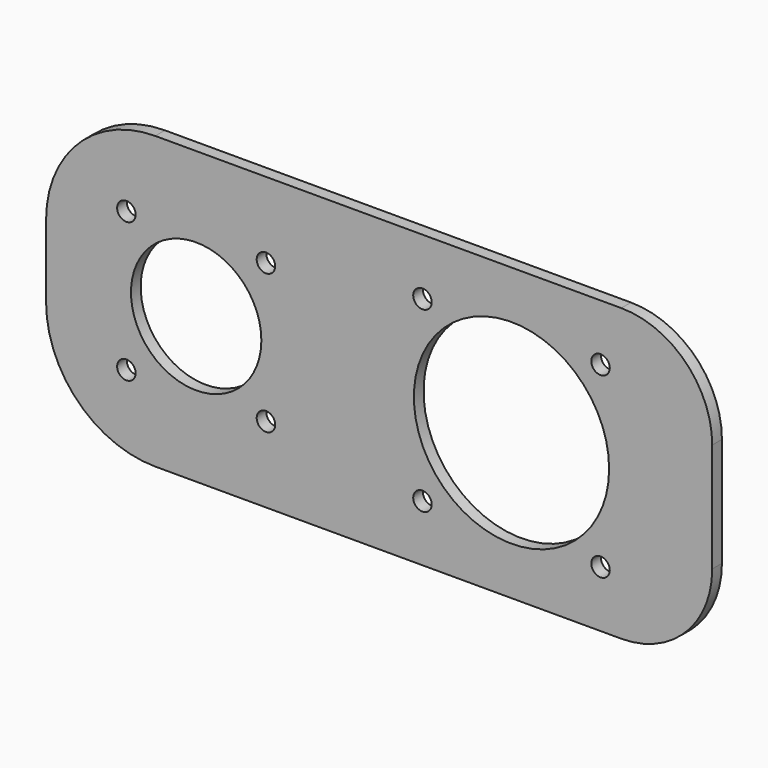
from build123d import *

# Parameters (mm, degrees)
F0_R     = 1.524
F0_R_2   = 10.75
F0_R_3   = 16.1
F1_DEPTH = 2


with BuildPart() as f1:
    # F0 (on Front) → F1 (new body)
    with BuildSketch(Plane.XZ):
        with BuildLine():
            Line((-24.75, 6), (-24.75, 0))
            Line((-24.75, 0), (-24.75, -6))
            ThreePointArc((-24.75, -6), (-19.477922, -18.727922), (-6.75, -24))
            Line((-6.75, -24), (70.1, -24))
            ThreePointArc((70.1, -24), (80.706602, -19.606602), (85.1, -9))
            Line((85.1, -9), (85.1, 0))
            Line((85.1, 0), (85.1, 9))
            ThreePointArc((85.1, 9), (80.706602, 19.606602), (70.1, 24))
            Line((70.1, 24), (-6.75, 24))
            ThreePointArc((-6.75, 24), (-19.477922, 18.727922), (-24.75, 6))
        make_face()
        with Locations((-11.5062, -11.5062)):
            Circle(F0_R, mode=Mode.SUBTRACT)
        with Locations((11.5062, -11.5062)):
            Circle(F0_R, mode=Mode.SUBTRACT)
        with Locations((37.3188, -14.6812)):
            Circle(F0_R, mode=Mode.SUBTRACT)
        with Locations((66.6812, -14.6812)):
            Circle(F0_R, mode=Mode.SUBTRACT)
        Circle(F0_R_2, mode=Mode.SUBTRACT)
        with Locations((-11.5062, 11.5062)):
            Circle(F0_R, mode=Mode.SUBTRACT)
        with Locations((11.5062, 11.5062)):
            Circle(F0_R, mode=Mode.SUBTRACT)
        with Locations((52, 0)):
            Circle(F0_R_3, mode=Mode.SUBTRACT)
        with Locations((37.3188, 14.6812)):
            Circle(F0_R, mode=Mode.SUBTRACT)
        with Locations((66.6812, 14.6812)):
            Circle(F0_R, mode=Mode.SUBTRACT)
    extrude(amount=F1_DEPTH)


solid = f1.part
